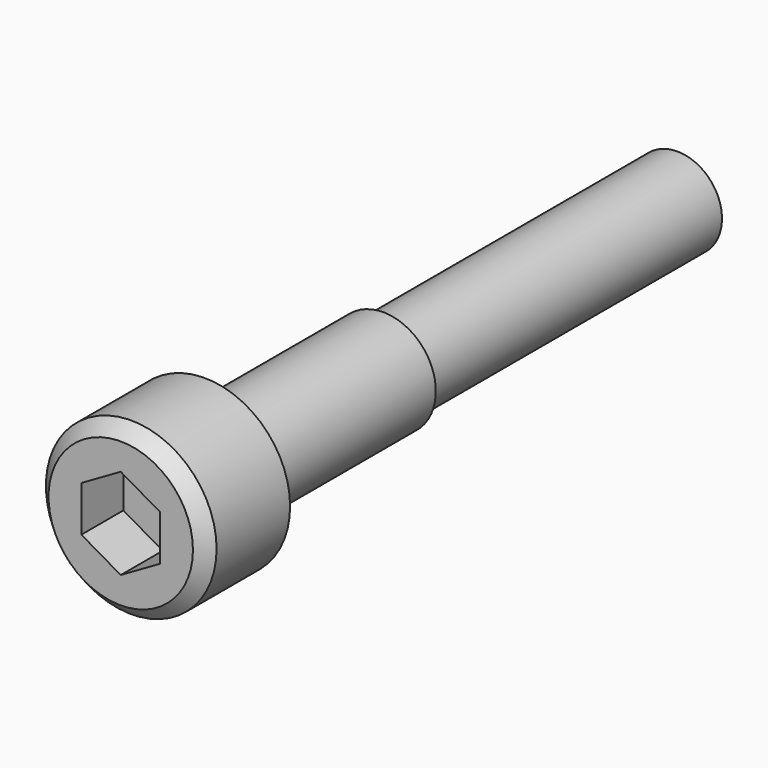
from build123d import *

# Parameters (mm, degrees)
F0_R     = 6.5
F1_DEPTH = 8
F3_DEPTH = 4
F4_R     = 4
F5_DEPTH = 45
F6_R     = 4
F6_R_2   = 3.4
F7_DEPTH = 28
F8_SIZE  = 1


with BuildPart() as f1:
    # F0 (on Front) → F1 (new body)
    with BuildSketch(Plane.XZ):
        Circle(F0_R)
    extrude(amount=-F1_DEPTH)

    # F2 (on face) → F3 (cut)
    with BuildSketch(Plane.XZ):
        Polygon((3, 1.732051), (0, 3.464102), (-3, 1.732051), (-3, -1.732051), (0, -3.464102), (3, -1.732051), align=None)
    extrude(amount=-F3_DEPTH, mode=Mode.SUBTRACT)

    # F4 (on face) → F5 (join)
    with BuildSketch(Plane(origin=(0, 8, 0), x_dir=(-1, 0, 0), z_dir=(0, 1, 0))):
        Circle(F4_R)
    extrude(amount=F5_DEPTH)

    # F6 (on face) → F7 (cut)
    with BuildSketch(Plane(origin=(0, 53, 0), x_dir=(-1, 0, 0), z_dir=(0, 1, 0))):
        Circle(F6_R)
        Circle(F6_R_2, mode=Mode.SUBTRACT)
    extrude(amount=-F7_DEPTH, mode=Mode.SUBTRACT)

    # F8
    f8_edges = [f1.edges().sort_by_distance(p)[0] for p in [
        (-6.5, 0, 0),
    ]]
    chamfer(f8_edges, length=F8_SIZE)


solid = f1.part
